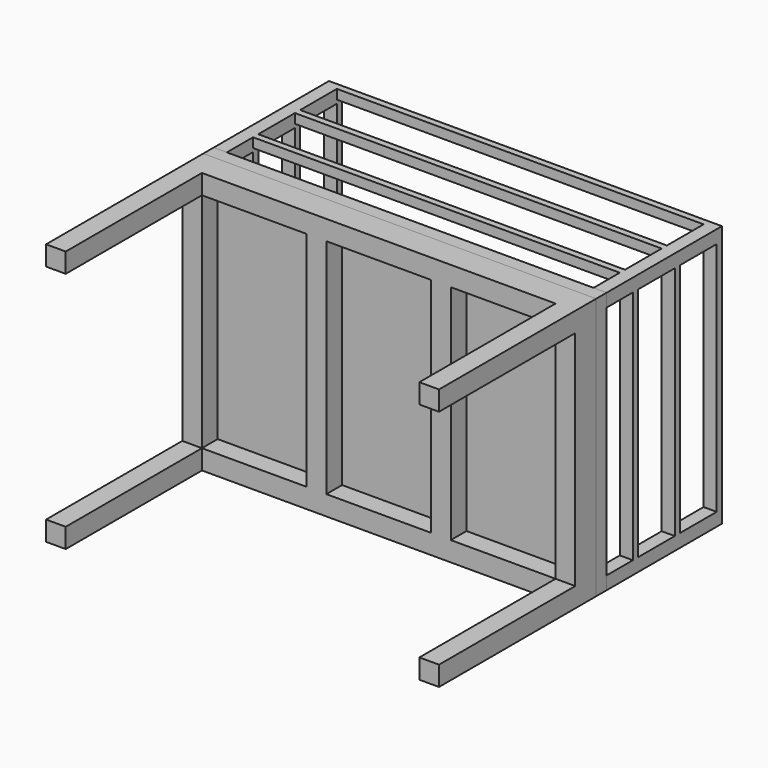
from build123d import *

# Parameters (mm, degrees)
F0_W      = 3000
F0_H      = 2000
F1_DEPTH  = 50
F2_W      = 150
F2_H      = 150
F3_DEPTH  = 1450
F5_DEPTH  = 1200
F6_W      = 350
F6_H      = 1800
F7_DEPTH  = 3000.001
F8_W      = 1700
F8_H      = 350
F9_DEPTH  = 110
F10_W     = 2800
F10_H     = 350
F11_DEPTH = 110
F12_DEPTH = 100
F13_W     = 150
F13_H     = 1700
F13_W_2   = 2700
F13_H_2   = 150
F14_DEPTH = 150
F15_W     = 150
F15_H     = 1700
F16_DEPTH = 150
F17_T     = -40


with BuildPart() as f1:
    # F0 (on Front) → F1 (new body)
    with BuildSketch(Plane.XZ):
        Rectangle(F0_W, F0_H)
    extrude(amount=F1_DEPTH)

    # F2 (on face) → F3 (join)
    with BuildSketch(Plane.XZ.offset(50)):
        with Locations((-1425, 925)):
            Rectangle(F2_W, F2_H)
        with Locations((1425, 925)):
            Rectangle(F2_W, F2_H)
        with Locations((-1425, -925)):
            Rectangle(F2_W, F2_H)
        with Locations((1425, -925)):
            Rectangle(F2_W, F2_H)
    extrude(amount=F3_DEPTH)


with BuildPart() as f5:
    # F4 (on face) → F5 (new body)
    with BuildSketch(Plane(origin=(0, 0, 0), x_dir=(-1, 0, 0), z_dir=(0, 1, 0))):
        Polygon((-1400, -1000), (-1400, 927.5000095367), (1400, 927.5000095367), (1400, -933.333337307), (-400, -933.333337307), (-400, -1000), (1500, -1000), (1500, 1000), (-1500, 1000), (-1500, -1000), align=None)
    extrude(amount=F5_DEPTH)

    # F6 (on face) → F7 (cut, through all)
    with BuildSketch(Plane(origin=(-1500, 0, 0), x_dir=(0, -1, 0), z_dir=(-1, 0, 0))):
        with Locations((-975, 0)):
            Rectangle(F6_W, F6_H)
        with Locations((-575, 0)):
            Rectangle(F6_W, F6_H)
        with Locations((-175, 0)):
            Rectangle(F6_W, F6_H)
    extrude(amount=-F7_DEPTH, mode=Mode.SUBTRACT)

    # F8 (on face) → F9 (cut)
    with BuildSketch(Plane(origin=(0, 0, -1000), x_dir=(1, 0, 0), z_dir=(0, 0, -1))):
        with Locations((-550, -975)):
            Rectangle(F8_W, F8_H)
        with Locations((-550, -175)):
            Rectangle(F8_W, F8_H)
        with Locations((-550, -575)):
            Rectangle(F8_W, F8_H)
    extrude(amount=-F9_DEPTH, mode=Mode.SUBTRACT)

    # F10 (on face) → F11 (cut)
    with BuildSketch(Plane.XY.offset(1000)):
        with Locations((0, 975)):
            Rectangle(F10_W, F10_H)
        with Locations((0, 575)):
            Rectangle(F10_W, F10_H)
        with Locations((0, 175)):
            Rectangle(F10_W, F10_H)
    extrude(amount=-F11_DEPTH, mode=Mode.SUBTRACT)


with BuildPart() as f12:
    # F12 (new): a face of the model
    f12_faces = [f1.part.faces().sort_by_distance(p)[0] for p in [
        (0, 0, 0),
    ]]
    extrude(f12_faces, amount=F12_DEPTH)

    # F17
    f17_openings = [f12.faces().sort_by_distance(p)[0] for p in [
        (0, 100, 0),
    ]]
    offset(amount=F17_T, openings=f17_openings)


with BuildPart() as f1_1:
    add(f1.part)

    # F13 (on face) → F14 (join)
    with BuildSketch(Plane.XZ.offset(50)):
        with Locations((-1425, 0)):
            Rectangle(F13_W, F13_H)
        with Locations((0, 925)):
            Rectangle(F13_W_2, F13_H_2)
        with Locations((1425, 0)):
            Rectangle(F13_W, F13_H)
        with Locations((0, -925)):
            Rectangle(F13_W_2, F13_H_2)
    extrude(amount=F14_DEPTH)

    # F15 (on face) → F16 (join)
    with BuildSketch(Plane.XZ.offset(50)):
        with Locations((-475, 0)):
            Rectangle(F15_W, F15_H)
        with Locations((475, 0)):
            Rectangle(F15_W, F15_H)
    extrude(amount=F16_DEPTH)


solid = Compound([f5.part, f12.part, f1_1.part])
